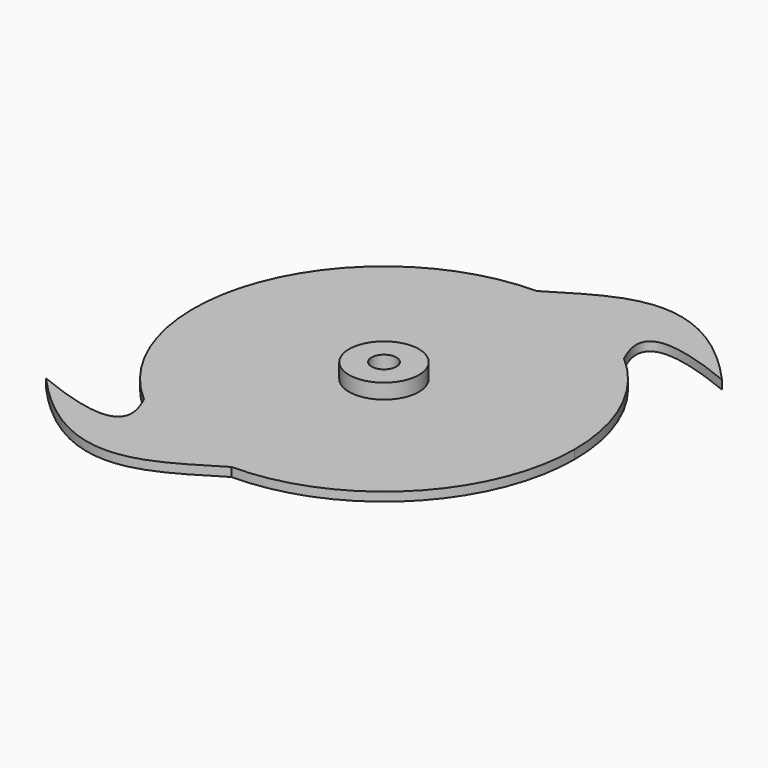
from build123d import *

# Parameters (mm, degrees)
F1_DEPTH = 1.778
F2_COUNT = 2
F3_R     = 2.5
F4_DEPTH = 25
F5_R     = 7.02
F5_R_2   = 2.5
F6_DEPTH = 3


with BuildPart() as f1:
    # F0 (on Top) → F1 (new body)
    with BuildSketch(Plane.XY):
        with BuildLine():
            ThreePointArc((0, 38.277449), (13.379533, 35.86295), (25.071134, 28.924061))
            add(Edge.make_bspline(
                [(41.508727, 32.954903), (22.082335, 40.809391), (22.082335, 35.254759), (25.071134, 28.924061)],
                knots=[0, 0, 0, 0, 16.924601, 16.924601, 16.924601, 16.924601], degree=3))
            add(Edge.make_bspline(
                [(0, 38.277449), (10.527689, 44.431913), (22.082335, 54.651333), (41.508727, 32.954903)],
                knots=[0, 0, 0, 0, 41.848583, 41.848583, 41.848583, 41.848583], degree=3))
        make_face()
        with BuildLine():
            ThreePointArc((0, 38.277449), (-27.066244, -27.066244), (38.277449, 0))
            ThreePointArc((38.277449, 0), (34.819694, 15.898176), (25.071134, 28.924061))
            ThreePointArc((25.071134, 28.924061), (13.379533, 35.86295), (0, 38.277449))
        make_face()
    extrude(amount=F1_DEPTH)

    # F2: F1 ×2 about axis
    f2_axis = Axis((0, 0, 0), (0, 0, -1))


with BuildPart() as f1_1:
    add(f1.part)
    for i in range(1, F2_COUNT):
        add(f1.part.rotate(f2_axis, i * 360 / F2_COUNT))

    # F3 (on face) → F4 (cut)
    with BuildSketch(Plane.XY.offset(1.778)):
        Circle(F3_R)
    extrude(amount=-F4_DEPTH, mode=Mode.SUBTRACT)


with BuildPart() as f6:
    # F5 (on face) → F6 (new body)
    with BuildSketch(Plane.XY.offset(1.778)):
        Circle(F5_R)
        Circle(F5_R_2, mode=Mode.SUBTRACT)
    extrude(amount=F6_DEPTH)


solid = Compound([f1_1.part, f6.part])
